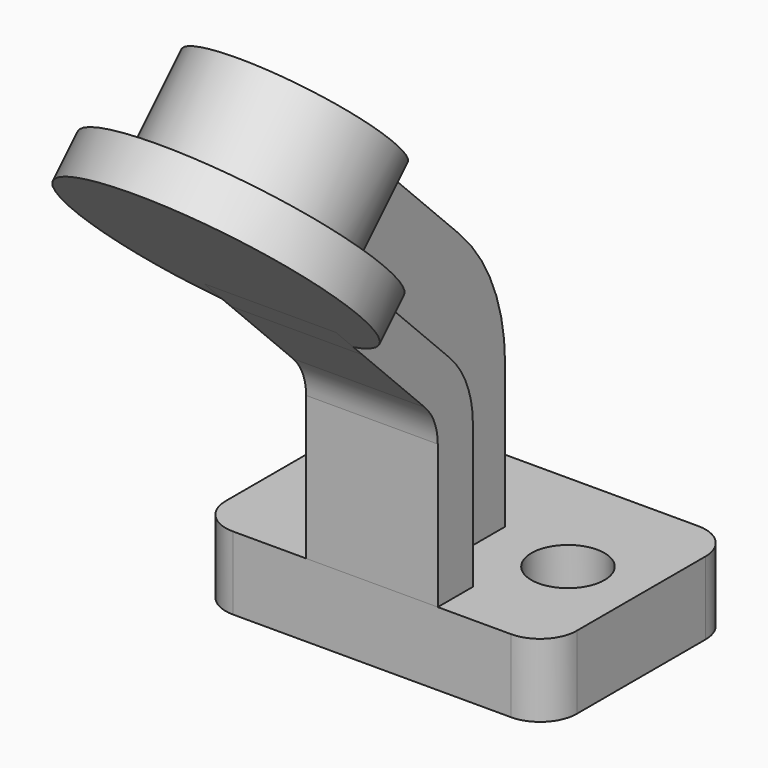
from build123d import *

# Parameters (mm, degrees)
F1_DEPTH       = 20
F2_R           = 10
F3_DEPTH       = 20
F6_R           = 27
F6_R_2         = 16
F7_DEPTH       = 26
F8_R           = 39.0000008047
F9_DEPTH       = 12
F11_DEPTH      = 18
F11_DEPTH_BACK = 18
F13_DEPTH      = 6
F13_DEPTH_BACK = 6


with BuildPart() as f1:
    # F0 (on Top) → F1 (new body)
    with BuildSketch(Plane.XY):
        with BuildLine():
            ThreePointArc((48, 22), (45.0710678119, 29.0710678119), (38, 32))
            Line((38, 32), (-38, 32))
            ThreePointArc((-38, 32), (-45.0710678119, 29.0710678119), (-48, 22))
            Line((-48, 22), (-48, -22))
            ThreePointArc((-48, -22), (-45.0710678119, -29.0710678119), (-38, -32))
            Line((-38, -32), (38, -32))
            ThreePointArc((38, -32), (45.0710678119, -29.0710678119), (48, -22))
            Line((48, -22), (48, 22))
        make_face()
    extrude(amount=F1_DEPTH)

    # F2 (on face) → F3 (cut)
    with BuildSketch(Plane.XY.offset(20)):
        with Locations((28, 0)):
            Circle(F2_R)
        with Locations((-28, 0)):
            Circle(F2_R)
    extrude(amount=-F3_DEPTH, mode=Mode.SUBTRACT)


with BuildPart() as f7:
    # F6 (on face) → F7 (new body)
    with BuildSketch(Plane(origin=(0, 43.593807146, 43.593807146), x_dir=(-1, 0, 0), z_dir=(0, 0.7071067812, 0.7071067812))):
        with Locations((0, 144.2518627754)):
            Circle(F6_R)
        with Locations((0, 144.2518627754)):
            Circle(F6_R_2, mode=Mode.SUBTRACT)
    extrude(amount=-F7_DEPTH)

    # F8 (on face) → F9 (join)
    with BuildSketch(Plane(origin=(0, 25.2090308351, 25.2090308351), x_dir=(1, 0, 0), z_dir=(0, -0.7071067812, -0.7071067812))):
        with Locations((0, 144.2518627754)):
            Circle(F8_R)
    extrude(amount=F9_DEPTH)


with BuildPart() as f11:
    # F10 (on Right) → F11 (new body, two sides)
    with BuildSketch(Plane.YZ) as f11_sk:
        with BuildLine():
            Line((-57.7005558711, 91.1480547929), (-36.3933982822, 69.8408972039))
            ThreePointArc((-36.3933982822, 69.8408972039), (-33.1418070123, 64.9745469716), (-32, 59.2342954861))
            Line((-32, 59.2342954861), (-32, 20))
            Line((-32, 20), (-20.0000036222, 20))
            Line((-20.0000036222, 20), (-20.0000036222, 59.2342954861))
            ThreePointArc((-20.0000036222, 59.2342954861), (-22.0552559687, 69.5667467738), (-27.9081194692, 78.3261760169))
            Line((-27.9081194692, 78.3261760169), (-49.2152770582, 99.6333336058))
            Line((-49.2152770582, 99.6333336058), (-57.711340487, 108.1293970346))
            Line((-57.711340487, 108.1293970346), (-66.8190966824, 100.2665956041))
            Line((-66.8190966824, 100.2665956041), (-57.7005558711, 91.1480547929))
        make_face()
    extrude(amount=F11_DEPTH)
    extrude(f11_sk.sketch, amount=-F11_DEPTH_BACK)


with BuildPart() as f13:
    # F12 (on Right) → F13 (new body, two sides)
    with BuildSketch(Plane.YZ) as f13_sk:
        with BuildLine():
            ThreePointArc((5.9999986829, 59.2342954861), (1.9656140063, 79.5165168975), (-9.5233415284, 96.7109539577))
            Line((-9.5233415284, 96.7109539577), (-51.3342692497, 138.5218816789))
            Line((-51.3342692497, 138.5218816789), (-71.2829710805, 121.7010276282))
            Line((-71.2829710805, 121.7010276282), (-27.9081194692, 78.3261760169))
            ThreePointArc((-27.9081194692, 78.3261760169), (-22.0552559687, 69.5667467738), (-20.0000036222, 59.2342954861))
            Line((-20.0000036222, 59.2342954861), (-20.0000036222, 20))
            Line((-20.0000036222, 20), (5.9999986829, 20))
            Line((5.9999986829, 20), (5.9999986829, 59.2342954861))
        make_face()
    extrude(amount=F13_DEPTH)
    extrude(f13_sk.sketch, amount=-F13_DEPTH_BACK)


solid = Compound([f1.part, f7.part, f11.part, f13.part])
